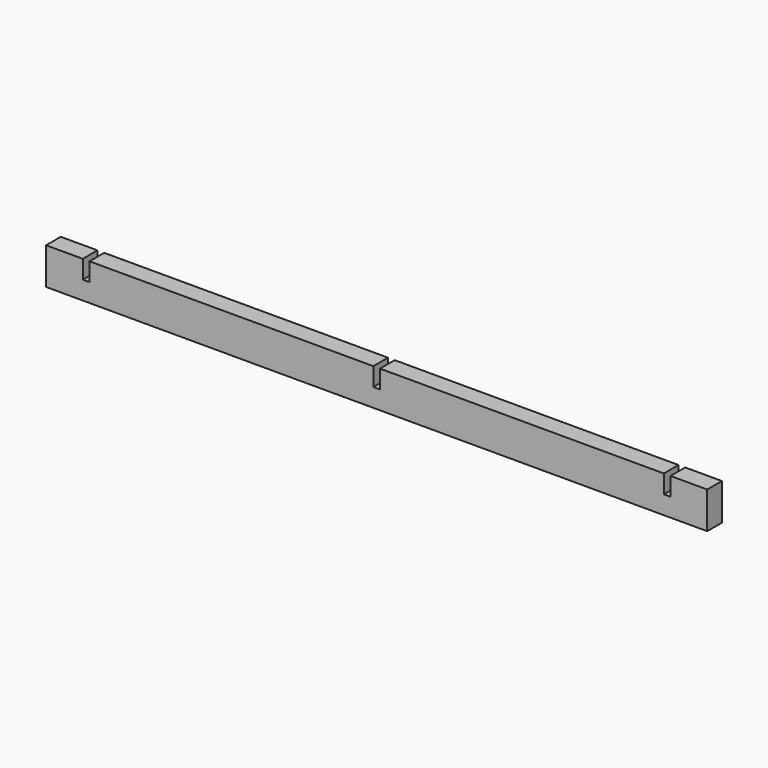
from build123d import *

# Parameters (mm, degrees)
F1_DEPTH = 12.7
F2_W     = 4.6228
F2_H     = 12.7
F3_DEPTH = 25.4


with BuildPart() as f1:
    # F0 (on Front) → F1 (new body)
    with BuildSketch(Plane.XZ):
        Polygon((-190.990873, 1.638047), (-190.990873, -23.761953), (266.209127, -23.761953), (266.209127, 1.638047), (240.809127, 1.638047), (240.809127, -11.061953), (236.186327, -11.061953), (236.186327, 1.638047), (-160.968073, 1.638047), (-160.968073, -11.061953), (-165.590873, -11.061953), (-165.590873, 1.638047), align=None)
    extrude(amount=F1_DEPTH)

    # F2 (on face) → F3 (cut)
    with BuildSketch(Plane.XZ.offset(12.7)):
        with Locations((37.609127, -4.711953)):
            Rectangle(F2_W, F2_H)
    extrude(amount=-F3_DEPTH, mode=Mode.SUBTRACT)


solid = f1.part
